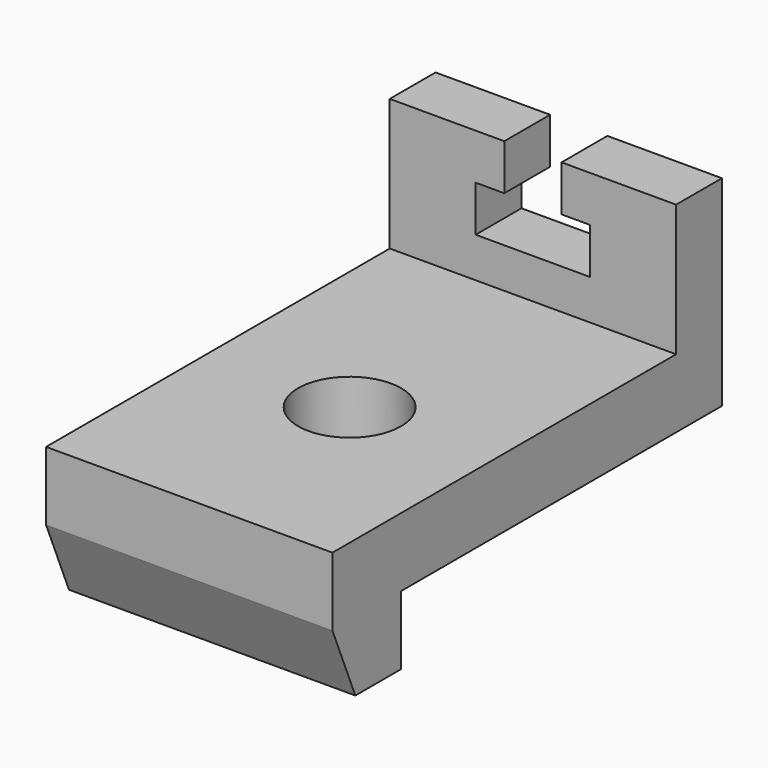
from build123d import *

# Parameters (mm, degrees)
F1_DEPTH = 50
F3_DEPTH = 25
F4_R     = 9
F5_DEPTH = 25


with BuildPart() as f1:
    # F0 (on Right) → F1 (new body)
    with BuildSketch(Plane.YZ):
        Polygon((37.5, -6), (37.5, 6), (-37.5, 6), (-37.5, -6), (-22.5, -6), align=None)
        Polygon((37.5, 29), (37.5, 6), (37.5, -6), (47.5, -6), (47.5, 29), align=None)
        Polygon((-22.5, -6), (-37.5, -6), (-32.5, -18), (-22.5, -18), align=None)
    extrude(amount=F1_DEPTH)

    # F2 (on face) → F3 (cut)
    with BuildSketch(Plane.XZ.offset(-37.5)):
        Polygon((30, 29), (20, 29), (20, 21), (15, 21), (15, 13), (35, 13), (35, 21), (30, 21), align=None)
    extrude(amount=-F3_DEPTH, mode=Mode.SUBTRACT)

    # F4 (on face) → F5 (cut)
    with BuildSketch(Plane.XY.offset(6)):
        with Locations((25, -2.5)):
            Circle(F4_R)
    extrude(amount=-F5_DEPTH, mode=Mode.SUBTRACT)


solid = f1.part
